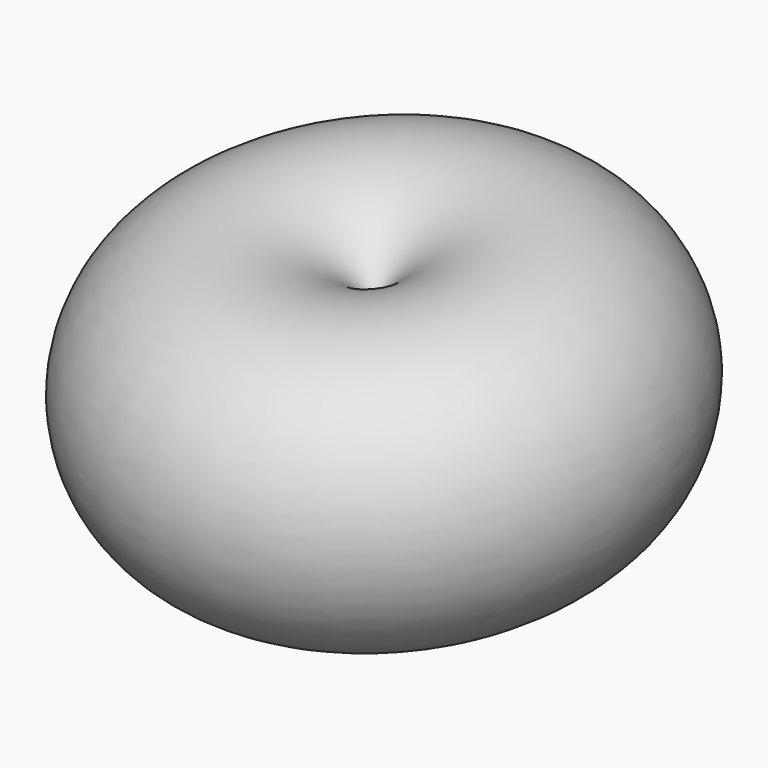
from build123d import *


with BuildPart() as f1:
    # F0 (on Right) → F1 (revolve)
    with BuildSketch(Plane.YZ):
        with BuildLine():
            Line((-19.0070703145, 4.7021942452), (-26.6316091771, 59.7014771015))
            ThreePointArc((-26.6316091771, 59.7014771015), (-123.0557921835, 18.3060776311), (-19.0070703145, 4.7021942452))
        make_face()
    revolve(axis=Axis((0, -23.1354516, 34.4820949249), (0, 0.1373165763, -0.9905272121)))


solid = f1.part
